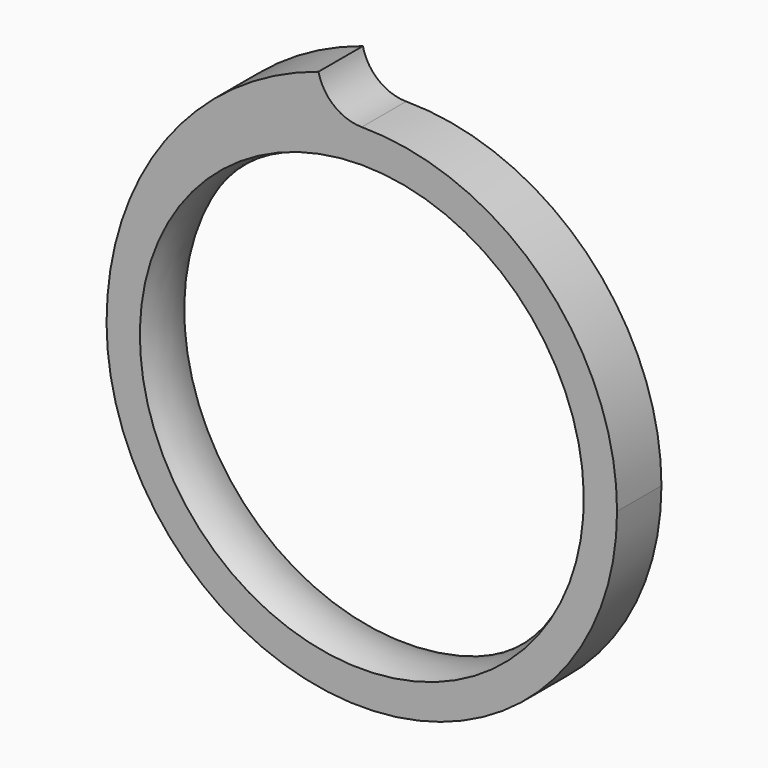
from build123d import *

# Parameters (mm, degrees)
F0_R     = 50.8
F1_DEPTH = 6.35


with BuildPart() as f1:
    # F0 (on Front) → F1 (new body, symmetric)
    with BuildSketch(Plane.XZ):
        with BuildLine():
            ThreePointArc((-58.42, 0), (0, -58.42), (58.42, 0))
            ThreePointArc((58.42, 0), (41.309178, 41.309178), (0, 58.42))
            ThreePointArc((0, 58.42), (-41.309178, 41.309178), (-58.42, 0))
        make_face()
        Circle(F0_R, mode=Mode.SUBTRACT)
        with BuildLine():
            ThreePointArc((-58.42, 0), (-41.309178, 41.309178), (0, 58.42))
            ThreePointArc((0, 58.42), (-6.348121, 60.647349), (-9.91288, 66.352804))
            ThreePointArc((-9.91288, 66.352804), (-45.000104, 41.096336), (-58.42, 0))
        make_face()
    extrude(amount=F1_DEPTH, both=True)

    # F2 (on Right) → F3 (revolve)
    with BuildSketch(Plane.YZ):
        with BuildLine():
            Line((6.35, 50.8), (-6.35, 50.8))
            ThreePointArc((-6.35, 50.8), (0, 49.53), (6.35, 50.8))
        make_face()
    revolve(axis=Axis((0, 1.744404, 0), (0, 1, 0)))


solid = f1.part
